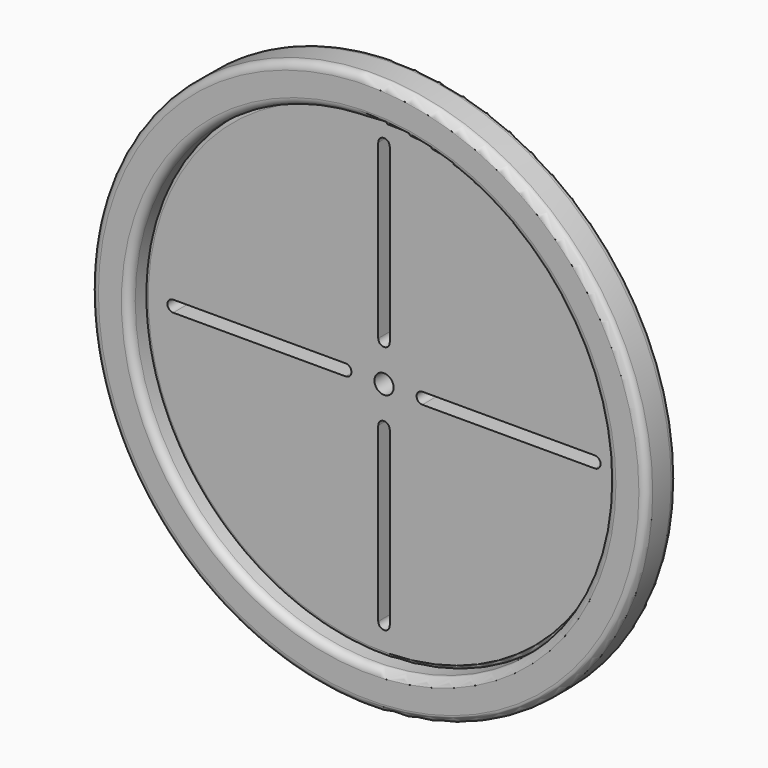
from build123d import *

# Parameters (mm, degrees)
F0_R     = 62.5
F0_R_2   = 2.5
F1_DEPTH = 5
F2_R     = 1
F0_R_3   = 72.5
F3_DEPTH = 10
F4_R     = 2


with BuildPart() as f1:
    # F0 (on Front) → F1 (new body)
    with BuildSketch(Plane.XZ):
        Circle(F0_R)
        with BuildLine():
            ThreePointArc((-1.5, -10), (0, -8.5), (1.5, -10))
            Line((1.5, -10), (1.5, -55))
            ThreePointArc((1.5, -55), (0, -56.5), (-1.5, -55))
            Line((-1.5, -55), (-1.5, -10))
        make_face(mode=Mode.SUBTRACT)
        with BuildLine():
            ThreePointArc((-10, 1.5), (-8.5, 0), (-10, -1.5))
            Line((-10, -1.5), (-55, -1.5))
            ThreePointArc((-55, -1.5), (-56.5, 0), (-55, 1.5))
            Line((-55, 1.5), (-10, 1.5))
        make_face(mode=Mode.SUBTRACT)
        Circle(F0_R_2, mode=Mode.SUBTRACT)
        with BuildLine():
            Line((55, -1.5), (10, -1.5))
            ThreePointArc((10, -1.5), (8.5, 0), (10, 1.5))
            Line((10, 1.5), (55, 1.5))
            ThreePointArc((55, 1.5), (56.5, 0), (55, -1.5))
        make_face(mode=Mode.SUBTRACT)
        with BuildLine():
            Line((1.5, 55), (1.5, 10))
            ThreePointArc((1.5, 10), (0, 8.5), (-1.5, 10))
            Line((-1.5, 10), (-1.5, 55))
            ThreePointArc((-1.5, 55), (0, 56.5), (1.5, 55))
        make_face(mode=Mode.SUBTRACT)
    extrude(amount=F1_DEPTH)

    # F2
    f2_edges = [f1.edges().sort_by_distance(p)[0] for p in [
        (-62.5, -5, 0),
        (-62.5, 0, 0),
    ]]
    fillet(f2_edges, radius=F2_R)

    # F0 (on Front) → F3 (join)
    with BuildSketch(Plane.XZ):
        Circle(F0_R_3)
        Circle(F0_R, mode=Mode.SUBTRACT)
    extrude(amount=F3_DEPTH)

    # F4
    f4_edges = [f1.edges().sort_by_distance(p)[0] for p in [
        (-61.5, -5, 0),
        (-62.5, -10, 0),
        (-72.5, -10, 0),
        (-72.5, 0, 0),
    ]]
    fillet(f4_edges, radius=F4_R)


solid = f1.part
